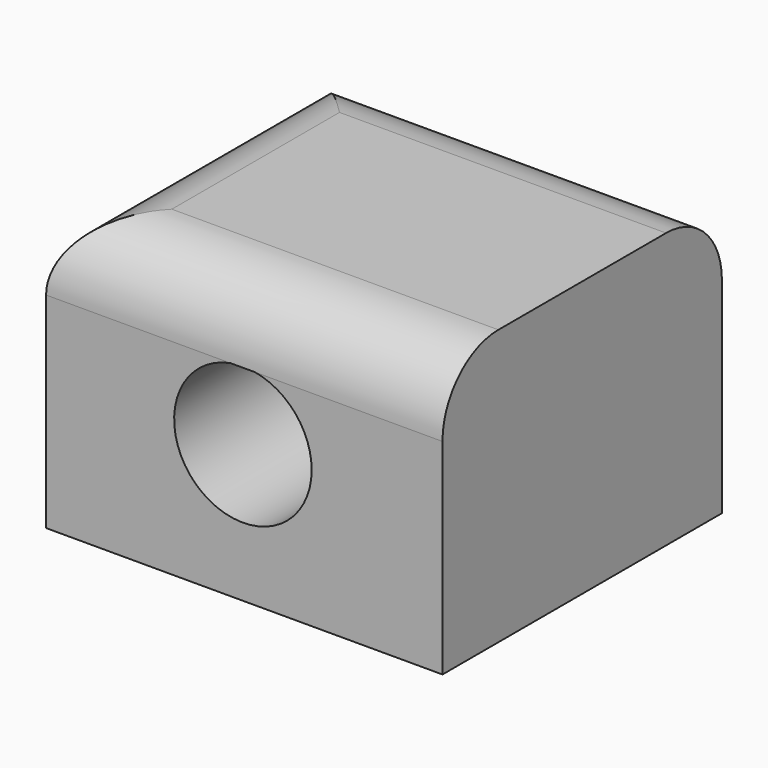
from build123d import *

# Parameters (mm, degrees)
F0_W     = 28.8251918835
F0_H     = 20
F1_DEPTH = 25.4
F2_R     = 5.08
F4_DEPTH = 25.401


with BuildPart() as f1:
    # F0 (on Front) → F1 (new body)
    with BuildSketch(Plane.XZ):
        Rectangle(F0_W, F0_H)
    extrude(amount=F1_DEPTH)

    # F2
    f2_edges = [f1.edges().sort_by_distance(p)[0] for p in [
        (0, 0, 10),
        (-14.412596, -12.7, 10),
        (0, -25.4, 10),
    ]]
    fillet(f2_edges, radius=F2_R)

    # F3 (on face) → F4 (cut, through all)
    with BuildSketch(Plane.XZ.offset(25.4)):
        with BuildLine():
            ThreePointArc((-0.9913088891, 4.92), (-3.3056021973, -3.8375911383), (4.899533409, 0))
            ThreePointArc((4.899533409, 0), (3.7371245473, 3.2051356063), (0.790375707, 4.92))
            Line((0.790375707, 4.92), (-0.9913088891, 4.92))
        make_face()
    extrude(amount=-F4_DEPTH, mode=Mode.SUBTRACT)


solid = f1.part
